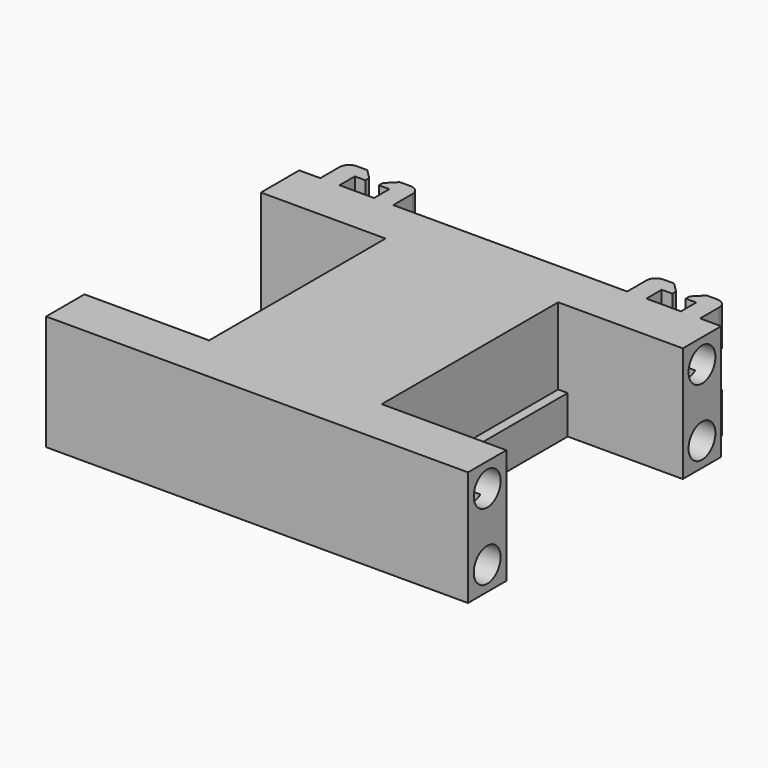
from build123d import *

# Parameters (mm, degrees)
SKETCH068_R     = 1.25
PAD036_DEPTH    = 4
PAD037_DEPTH    = 8
POCKET027_DEPTH = 8
PAD038_DEPTH    = 4
PAD039_DEPTH    = 4
PAD040_DEPTH    = 4
PAD041_DEPTH    = 4
SKETCH076_R     = 1.75
POCKET028_DEPTH = 4
FILLET006_R     = 1
CHAMFER_SIZE    = 1


with BuildPart() as part:
    # Sketch068 → Pad036 (new body)
    with BuildSketch(Plane.XY):
        Polygon((0, 0), (-44, 0), (-44, -5), (-32, -5), (-32, -28), (-44, -28), (-44, -33), (0, -33), (0, -28), (-12, -28), (-12, -5), (0, -5), align=None)
        with Locations((-6, -1.8)):
            Circle(SKETCH068_R, mode=Mode.SUBTRACT)
        with Locations((-38, -31.2)):
            Circle(SKETCH068_R, mode=Mode.SUBTRACT)
        with Locations((-6, -31.2)):
            Circle(SKETCH068_R, mode=Mode.SUBTRACT)
        with Locations((-38, -1.8)):
            Circle(SKETCH068_R, mode=Mode.SUBTRACT)
    extrude(amount=PAD036_DEPTH)

    # Sketch069 → Pad037 (join)
    with BuildSketch(Plane.XY.offset(4)):
        Polygon((0, 0), (-44, 0), (-44, -5), (-31, -5), (-31, -28), (-44, -28), (-44, -33), (0, -33), (0, -28), (-13, -28), (-13, -5), (0, -5), align=None)
    extrude(amount=PAD037_DEPTH)

    # Sketch070 → Pocket027 (cut)
    with BuildSketch(Plane.XY.offset(3)):
        Polygon((-42.5, -1.5), (-42.5, -3.5), (-29, -3.5), (-29, -5), (-29, -29.5), (-42.5, -29.5), (-42.5, -31.5), (-1.5, -31.5), (-1.5, -29.5), (-15, -29.5), (-15, -3.5), (-1.5, -3.5), (-1.5, -1.5), align=None)
    extrude(amount=POCKET027_DEPTH, mode=Mode.SUBTRACT)

    # Sketch072 → Pad038 (join)
    with BuildSketch(Plane(origin=(-38, 0, 12), x_dir=(1, 0, 0), z_dir=(0, 0, 1))):
        Polygon((-1.8, 0), (-1.8, 2), (-0.7, 2), (-0.7, 3.5), (-3.8, 3.5), (-3.8, 0), align=None)
        Polygon((0.7, 2), (1.8, 2), (1.8, 0), (3.8, 0), (3.8, 3.5), (0.7, 3.5), align=None)
    extrude(amount=-PAD038_DEPTH)

    # Sketch073 → Pad039 (join)
    with BuildSketch(Plane(origin=(-38, 0, 0), x_dir=(1, 0, 0), z_dir=(0, 0, 1))):
        Polygon((-1.8, 0), (-1.8, 2), (-0.7, 2), (-0.7, 3.5), (-3.8, 3.5), (-3.8, 0), align=None)
        Polygon((0.7, 2), (1.8, 2), (1.8, 0), (3.8, 0), (3.8, 3.5), (0.7, 3.5), align=None)
    extrude(amount=PAD039_DEPTH)

    # Sketch074 → Pad040 (join)
    with BuildSketch(Plane(origin=(-6, 0, 0), x_dir=(1, 0, 0), z_dir=(0, 0, 1))):
        Polygon((-1.8, 0), (-1.8, 2), (-0.7, 2), (-0.7, 3.5), (-3.8, 3.5), (-3.8, 0), align=None)
        Polygon((0.7, 2), (1.8, 2), (1.8, 0), (3.8, 0), (3.8, 3.5), (0.7, 3.5), align=None)
    extrude(amount=PAD040_DEPTH)

    # Sketch075 → Pad041 (join)
    with BuildSketch(Plane(origin=(-6, 0, 12), x_dir=(1, 0, 0), z_dir=(0, 0, 1))):
        Polygon((-1.8, 0), (-1.8, 2), (-0.7, 2), (-0.7, 3.5), (-3.8, 3.5), (-3.8, 0), align=None)
        Polygon((0.7, 2), (1.8, 2), (1.8, 0), (3.8, 0), (3.8, 3.5), (0.7, 3.5), align=None)
    extrude(amount=-PAD041_DEPTH)

    # Sketch076 → Pocket028 (cut)
    with BuildSketch(Plane.YZ):
        with Locations((-30.5, 9.5)):
            Circle(SKETCH076_R)
        with Locations((-30.5, 2.5)):
            Circle(SKETCH076_R)
        with Locations((-2.5, 2.5)):
            Circle(SKETCH076_R)
        with Locations((-2.5, 9.5)):
            Circle(SKETCH076_R)
    extrude(amount=-POCKET028_DEPTH, mode=Mode.SUBTRACT)

    # Fillet006
    fillet006_edges = [part.edges().sort_by_distance(p)[0] for p in [
        (-9.8, 3.5, 2),
        (-2.2, 3.5, 2),
        (-2.2, 3.5, 10),
        (-9.8, 3.5, 10),
        (-34.2, 3.5, 10),
        (-41.8, 3.5, 10),
        (-41.8, 3.5, 2),
        (-34.2, 3.5, 2),
    ]]
    fillet(fillet006_edges, radius=FILLET006_R)

    # Chamfer
    chamfer_edges = [part.edges().sort_by_distance(p)[0] for p in [
        (-5.3, 3.5, 2),
        (-6.7, 3.5, 2),
        (-5.3, 3.5, 10),
        (-6.7, 3.5, 10),
        (-37.3, 3.5, 2),
        (-38.7, 3.5, 2),
        (-38.7, 3.5, 10),
        (-37.3, 3.5, 10),
    ]]
    chamfer(chamfer_edges, length=CHAMFER_SIZE)


with BuildPart() as part_1:
    # Body011 placement: moved
    add(part.part.moved(Location((5, 11, 16.4))))


solid = part_1.part
